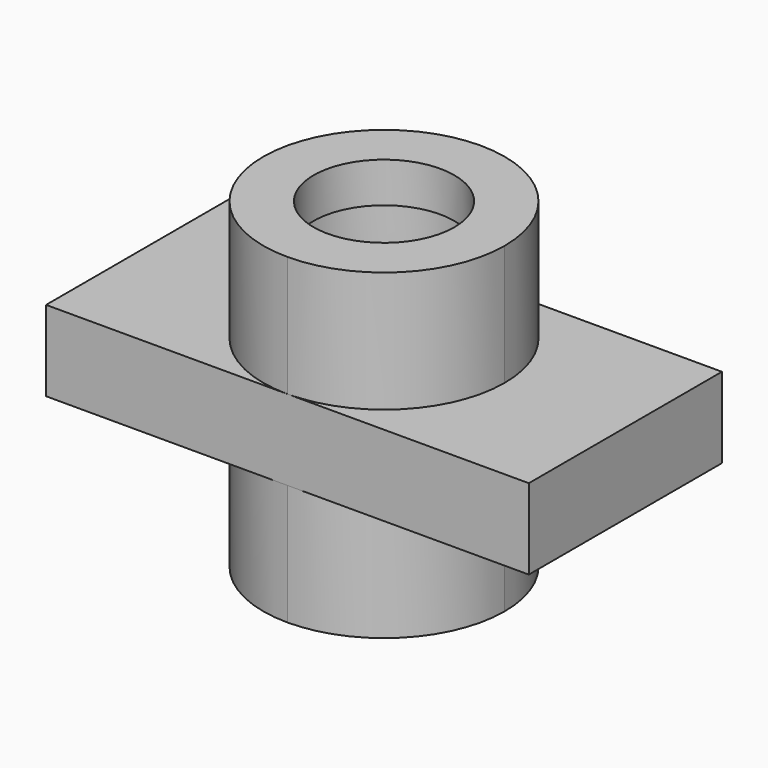
from build123d import *

# Parameters (mm, degrees)
F0_W     = 38.1
F0_H     = 19.05
F0_H_2   = 12.7
F0_W_2   = 19.05
F1_DEPTH = 19.05
F3_DEPTH = 19.05
F5_DEPTH = 19.05
F7_START = -6.35
F6_R     = 12.7
F6_R_2   = 11.1125
F7_DEPTH = 6.35
F8_DEPTH = 50.801


with BuildPart() as f1:
    # F0 (on Front) → F1 (new body, symmetric)
    with BuildSketch(Plane.XZ):
        with Locations((0, 41.275)):
            Rectangle(F0_W, F0_H)
        with Locations((0, 25.4)):
            Rectangle(F0_W, F0_H_2)
        with Locations((0, 9.525)):
            Rectangle(F0_W, F0_H)
        with Locations((-28.575, 25.4)):
            Rectangle(F0_W_2, F0_H_2)
        with Locations((28.575, 25.4)):
            Rectangle(F0_W_2, F0_H_2)
    extrude(amount=F1_DEPTH, both=True)

    # F2 (on face) → F3 (cut)
    with BuildSketch(Plane.XY.offset(50.8)):
        with BuildLine():
            ThreePointArc((-19.05, 0), (-13.4703841816, 13.4703841816), (0, 19.05))
            Line((0, 19.05), (-19.05, 19.05))
            Line((-19.05, 19.05), (-19.05, 0))
        make_face()
        with BuildLine():
            ThreePointArc((0, 19.05), (13.4703841816, 13.4703841816), (19.05, 0))
            Line((19.05, 0), (19.05, 19.05))
            Line((19.05, 19.05), (0, 19.05))
        make_face()
        with BuildLine():
            Line((-19.05, -19.05), (-3.68e-08, -19.05))
            ThreePointArc((-3.68e-08, -19.05), (-13.4703841946, -13.4703841686), (-19.05, 0))
            Line((-19.05, 0), (-19.05, -19.05))
        make_face()
        with BuildLine():
            Line((19.05, -19.05), (19.05, 0))
            ThreePointArc((19.05, 0), (13.4703841686, -13.4703841946), (-3.68e-08, -19.05))
            Line((-3.68e-08, -19.05), (19.05, -19.05))
        make_face()
    extrude(amount=-F3_DEPTH, mode=Mode.SUBTRACT)

    # F4 (on face) → F5 (cut)
    with BuildSketch(Plane(origin=(0, 0, 0), x_dir=(1, 0, 0), z_dir=(0, 0, -1))):
        with BuildLine():
            ThreePointArc((-19.05, -3.68e-08), (-13.4703841946, 13.4703841686), (0, 19.05))
            Line((0, 19.05), (-19.05, 19.05))
            Line((-19.05, 19.05), (-19.05, -3.68e-08))
        make_face()
        with BuildLine():
            ThreePointArc((0, 19.05), (13.4703841816, 13.4703841816), (19.05, 0))
            Line((19.05, 0), (19.05, 19.05))
            Line((19.05, 19.05), (0, 19.05))
        make_face()
        with BuildLine():
            Line((19.05, -19.05), (19.05, 0))
            ThreePointArc((19.05, 0), (13.4703841686, -13.4703841946), (-3.68e-08, -19.05))
            Line((-3.68e-08, -19.05), (19.05, -19.05))
        make_face()
        with BuildLine():
            Line((-19.05, -19.05), (-3.68e-08, -19.05))
            ThreePointArc((-3.68e-08, -19.05), (-13.4703841816, -13.4703841816), (-19.05, -3.68e-08))
            Line((-19.05, -3.68e-08), (-19.05, -19.05))
        make_face()
    extrude(amount=-F5_DEPTH, mode=Mode.SUBTRACT)

    # F6 (on face) → F7 (cut)
    with BuildSketch(Plane.XY.offset(50.8).offset(F7_START)):
        Circle(F6_R)
        Circle(F6_R_2, mode=Mode.SUBTRACT)
    extrude(amount=-F7_DEPTH, mode=Mode.SUBTRACT)

    # F6 (on face) → F8 (cut, through all)
    with BuildSketch(Plane.XY.offset(50.8)):
        Circle(F6_R_2)
    extrude(amount=-F8_DEPTH, mode=Mode.SUBTRACT)


solid = f1.part
